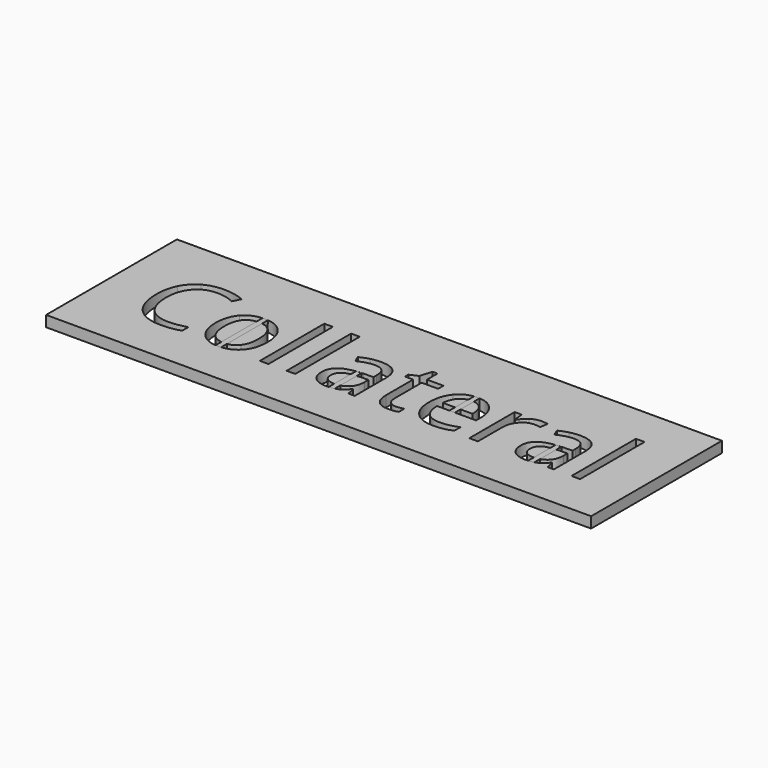
from build123d import *

# Parameters (mm, degrees)
F1_W     = 100
F1_H     = 30
F1_W_2   = 1.5768229167
F1_H_2   = 14.7747395833
F2_DEPTH = 2
F4_DEPTH = 2


with BuildPart() as f2:
    # F1 (on Top) → F2 (new body)
    with BuildSketch(Plane.XY):
        with Locations((-1.2181133032, 22.7711106278)):
            Rectangle(F1_W, F1_H)
        with BuildLine():
            add(Edge.make_bspline(
                [(-33.0731068962, 27.6686800722), (-34.6499298128, 28.4069613222), (-36.2267527295, 28.4069613222)],
                knots=[0, 0, 0, 1, 1, 1], degree=2))
            add(Edge.make_bspline(
                [(-36.2267527295, 28.4069613222), (-38.5145131462, 28.4069613222), (-39.8391659239, 26.8833068084)],
                knots=[0, 0, 0, 1, 1, 1], degree=2))
            add(Edge.make_bspline(
                [(-39.8391659239, 26.8833068084), (-41.1638187017, 25.3596522945), (-41.1638187017, 22.7103467389)],
                knots=[0, 0, 0, 1, 1, 1], degree=2))
            add(Edge.make_bspline(
                [(-41.1638187017, 22.7103467389), (-41.1638187017, 19.9881245167), (-39.8862579378, 18.5009283361)],
                knots=[0, 0, 0, 1, 1, 1], degree=2))
            add(Edge.make_bspline(
                [(-39.8862579378, 18.5009283361), (-38.6086971739, 17.0137321556), (-36.2449818962, 17.0137321556)],
                knots=[0, 0, 0, 1, 1, 1], degree=2))
            add(Edge.make_bspline(
                [(-36.2449818962, 17.0137321556), (-34.7927249517, 17.0137321556), (-32.9303117573, 17.5363016)],
                knots=[0, 0, 0, 1, 1, 1], degree=2))
            Line((-32.9303117573, 17.5363016), (-32.9303117573, 16.1235411834))
            add(Edge.make_bspline(
                [(-32.9303117573, 16.1235411834), (-34.3734541184, 15.5797043778), (-36.4910756462, 15.5797043778)],
                knots=[0, 0, 0, 1, 1, 1], degree=2))
            add(Edge.make_bspline(
                [(-36.4910756462, 15.5797043778), (-39.5566138406, 15.5797043778), (-41.2230634934, 17.4421175722)],
                knots=[0, 0, 0, 1, 1, 1], degree=2))
            add(Edge.make_bspline(
                [(-41.2230634934, 17.4421175722), (-42.8895131462, 19.3045307667), (-42.8895131462, 22.7316141)],
                knots=[0, 0, 0, 1, 1, 1], degree=2))
            add(Edge.make_bspline(
                [(-42.8895131462, 22.7316141), (-42.8895131462, 24.8765793778), (-42.0874298128, 26.4898606278)],
                knots=[0, 0, 0, 1, 1, 1], degree=2))
            add(Edge.make_bspline(
                [(-42.0874298128, 26.4898606278), (-41.2853464795, 28.1031418778), (-39.7708065489, 28.9766227806)],
                knots=[0, 0, 0, 1, 1, 1], degree=2))
            add(Edge.make_bspline(
                [(-39.7708065489, 28.9766227806), (-38.2562666184, 29.8501036834), (-36.2054853684, 29.8501036834)],
                knots=[0, 0, 0, 1, 1, 1], degree=2))
            add(Edge.make_bspline(
                [(-36.2054853684, 29.8501036834), (-34.0240617573, 29.8501036834), (-32.3895131462, 29.0540967389)],
                knots=[0, 0, 0, 1, 1, 1], degree=2))
            Line((-32.3895131462, 29.0540967389), (-33.0731068962, 27.6686800722))
        make_face(mode=Mode.SUBTRACT)
        with BuildLine():
            add(Edge.make_bspline(
                [(-22.4439836323, 24.9145568084), (-21.1573082851, 23.4607807667), (-21.1573082851, 20.9846522945)],
                knots=[0, 0, 0, 1, 1, 1], degree=2))
            add(Edge.make_bspline(
                [(-21.1573082851, 20.9846522945), (-21.1573082851, 18.43864535), (-22.4379072434, 17.0091748639)],
                knots=[0, 0, 0, 1, 1, 1], degree=2))
            add(Edge.make_bspline(
                [(-22.4379072434, 17.0091748639), (-23.7185062017, 15.5797043778), (-25.9789228684, 15.5797043778)],
                knots=[0, 0, 0, 1, 1, 1], degree=2))
            add(Edge.make_bspline(
                [(-25.9789228684, 15.5797043778), (-27.3764923128, 15.5797043778), (-28.4580895351, 16.2359543778)],
                knots=[0, 0, 0, 1, 1, 1], degree=2))
            add(Edge.make_bspline(
                [(-28.4580895351, 16.2359543778), (-29.5396867573, 16.8922043778), (-30.1290964795, 18.1165967389)],
                knots=[0, 0, 0, 1, 1, 1], degree=2))
            add(Edge.make_bspline(
                [(-30.1290964795, 18.1165967389), (-30.7185062017, 19.3409891), (-30.7185062017, 20.9846522945)],
                knots=[0, 0, 0, 1, 1, 1], degree=2))
            add(Edge.make_bspline(
                [(-30.7185062017, 20.9846522945), (-30.7185062017, 23.5276210445), (-29.4455027295, 24.9479769472)],
                knots=[0, 0, 0, 1, 1, 1], degree=2))
            add(Edge.make_bspline(
                [(-29.4455027295, 24.9479769472), (-28.1724992573, 26.36833285), (-25.9120825906, 26.36833285)],
                knots=[0, 0, 0, 1, 1, 1], degree=2))
            add(Edge.make_bspline(
                [(-25.9120825906, 26.36833285), (-23.7306589795, 26.36833285), (-22.4439836323, 24.9145568084)],
                knots=[0, 0, 0, 1, 1, 1], degree=2))
        make_face(mode=Mode.SUBTRACT)
        with BuildLine():
            Line((-0.9867353684, 15.7711106278), (-2.1564402295, 15.7711106278))
            Line((-2.1564402295, 15.7711106278), (-2.4693742573, 17.2537495167))
            Line((-2.4693742573, 17.2537495167), (-2.5453291184, 17.2537495167))
            add(Edge.make_bspline(
                [(-2.5453291184, 17.2537495167), (-3.3231068962, 16.2754509056), (-4.0963273823, 15.9275776417)],
                knots=[0, 0, 0, 1, 1, 1], degree=2))
            add(Edge.make_bspline(
                [(-4.0963273823, 15.9275776417), (-4.8695478684, 15.5797043778), (-6.0301381462, 15.5797043778)],
                knots=[0, 0, 0, 1, 1, 1], degree=2))
            add(Edge.make_bspline(
                [(-6.0301381462, 15.5797043778), (-7.5765791184, 15.5797043778), (-8.4546173128, 16.3787495167)],
                knots=[0, 0, 0, 1, 1, 1], degree=2))
            add(Edge.make_bspline(
                [(-8.4546173128, 16.3787495167), (-9.3326555073, 17.1777946556), (-9.3326555073, 18.6482807667)],
                knots=[0, 0, 0, 1, 1, 1], degree=2))
            add(Edge.make_bspline(
                [(-9.3326555073, 18.6482807667), (-9.3326555073, 21.7988884056), (-4.2922909239, 21.9507981278)],
                knots=[0, 0, 0, 1, 1, 1], degree=2))
            Line((-4.2922909239, 21.9507981278), (-2.5270999517, 22.0085238222))
            Line((-2.5270999517, 22.0085238222), (-2.5270999517, 22.6556592389))
            add(Edge.make_bspline(
                [(-2.5270999517, 22.6556592389), (-2.5270999517, 23.8800516), (-3.0527075906, 24.4633849334)],
                knots=[0, 0, 0, 1, 1, 1], degree=2))
            add(Edge.make_bspline(
                [(-3.0527075906, 24.4633849334), (-3.5783152295, 25.0467182667), (-4.7389055073, 25.0467182667)],
                knots=[0, 0, 0, 1, 1, 1], degree=2))
            add(Edge.make_bspline(
                [(-4.7389055073, 25.0467182667), (-6.0392527295, 25.0467182667), (-7.6798777295, 24.2507113222)],
                knots=[0, 0, 0, 1, 1, 1], degree=2))
            Line((-7.6798777295, 24.2507113222), (-8.1659888406, 25.4568745167))
            add(Edge.make_bspline(
                [(-8.1659888406, 25.4568745167), (-7.3973256462, 25.8731071556), (-6.4813100212, 26.1100863222)],
                knots=[0, 0, 0, 1, 1, 1], degree=2))
            add(Edge.make_bspline(
                [(-6.4813100212, 26.1100863222), (-5.5652943962, 26.3470654889), (-4.6416832851, 26.3470654889)],
                knots=[0, 0, 0, 1, 1, 1], degree=2))
            add(Edge.make_bspline(
                [(-4.6416832851, 26.3470654889), (-2.7823082851, 26.3470654889), (-1.8845218267, 25.5221956972)],
                knots=[0, 0, 0, 1, 1, 1], degree=2))
            add(Edge.make_bspline(
                [(-1.8845218267, 25.5221956972), (-0.9867353684, 24.6973259056), (-0.9867353684, 22.8744092389)],
                knots=[0, 0, 0, 1, 1, 1], degree=2))
            Line((-0.9867353684, 22.8744092389), (-0.9867353684, 15.7711106278))
        make_face(mode=Mode.SUBTRACT)
        with BuildLine():
            add(Edge.make_bspline(
                [(4.3939069927, 17.385910975), (4.8405215761, 16.8830897945), (5.6182993538, 16.8830897945)],
                knots=[0, 0, 0, 1, 1, 1], degree=2))
            add(Edge.make_bspline(
                [(5.6182993538, 16.8830897945), (6.0375701872, 16.8830897945), (6.4264590761, 16.9438536834)],
                knots=[0, 0, 0, 1, 1, 1], degree=2))
            add(Edge.make_bspline(
                [(6.4264590761, 16.9438536834), (6.8153479649, 17.0046175722), (7.0432125483, 17.07145785)],
                knots=[0, 0, 0, 1, 1, 1], degree=2))
            Line((7.0432125483, 17.07145785), (7.0432125483, 15.8652946556))
            add(Edge.make_bspline(
                [(7.0432125483, 15.8652946556), (6.7880042149, 15.7437668778), (6.2897403261, 15.6617356278)],
                knots=[0, 0, 0, 1, 1, 1], degree=2))
            add(Edge.make_bspline(
                [(6.2897403261, 15.6617356278), (5.7914764372, 15.5797043778), (5.3904347705, 15.5797043778)],
                knots=[0, 0, 0, 1, 1, 1], degree=2))
            add(Edge.make_bspline(
                [(5.3904347705, 15.5797043778), (2.3735076872, 15.5797043778), (2.3735076872, 18.7606939611)],
                knots=[0, 0, 0, 1, 1, 1], degree=2))
            Line((2.3735076872, 18.7606939611), (2.3735076872, 24.9525342389))
            Line((2.3735076872, 24.9525342389), (0.8817542149, 24.9525342389))
            Line((0.8817542149, 24.9525342389), (0.8817542149, 25.71208285))
            Line((0.8817542149, 25.71208285), (2.3735076872, 26.36833285))
            Line((2.3735076872, 26.36833285), (3.0358340761, 28.5892529889))
            Line((3.0358340761, 28.5892529889), (3.9472924094, 28.5892529889))
            Line((3.9472924094, 28.5892529889), (3.9472924094, 26.1769266))
            Line((3.9472924094, 26.1769266), (6.9672576872, 26.1769266))
            Line((6.9672576872, 26.1769266), (6.9672576872, 24.9525342389))
            Line((6.9672576872, 24.9525342389), (3.9472924094, 24.9525342389))
            Line((3.9472924094, 24.9525342389), (3.9472924094, 18.8275342389))
            add(Edge.make_bspline(
                [(3.9472924094, 18.8275342389), (3.9472924094, 17.8887321556), (4.3939069927, 17.385910975)],
                knots=[0, 0, 0, 1, 1, 1], degree=2))
        make_face(mode=Mode.SUBTRACT)
        with BuildLine():
            add(Edge.make_bspline(
                [(15.3162160205, 15.7376904889), (14.5718583816, 15.5797043778), (13.5176049094, 15.5797043778)],
                knots=[0, 0, 0, 1, 1, 1], degree=2))
            add(Edge.make_bspline(
                [(13.5176049094, 15.5797043778), (11.2116153261, 15.5797043778), (9.8763288677, 16.9863884056)],
                knots=[0, 0, 0, 1, 1, 1], degree=2))
            add(Edge.make_bspline(
                [(9.8763288677, 16.9863884056), (8.5410424094, 18.3930724334), (8.5410424094, 20.8874300722)],
                knots=[0, 0, 0, 1, 1, 1], degree=2))
            add(Edge.make_bspline(
                [(8.5410424094, 20.8874300722), (8.5410424094, 23.4060932667), (9.7806257427, 24.8872130584)],
                knots=[0, 0, 0, 1, 1, 1], degree=2))
            add(Edge.make_bspline(
                [(9.7806257427, 24.8872130584), (11.0202090761, 26.36833285), (13.1104868538, 26.36833285)],
                knots=[0, 0, 0, 1, 1, 1], degree=2))
            add(Edge.make_bspline(
                [(13.1104868538, 26.36833285), (15.0640458816, 26.36833285), (16.2033687983, 25.0816575028)],
                knots=[0, 0, 0, 1, 1, 1], degree=2))
            add(Edge.make_bspline(
                [(16.2033687983, 25.0816575028), (17.3426917149, 23.7949821556), (17.3426917149, 21.6864752111)],
                knots=[0, 0, 0, 1, 1, 1], degree=2))
            Line((17.3426917149, 21.6864752111), (17.3426917149, 20.6899474334))
            Line((17.3426917149, 20.6899474334), (10.1755910205, 20.6899474334))
            add(Edge.make_bspline(
                [(10.1755910205, 20.6899474334), (10.2242021316, 18.8579161834), (11.1022403261, 17.9084804195)],
                knots=[0, 0, 0, 1, 1, 1], degree=2))
            add(Edge.make_bspline(
                [(11.1022403261, 17.9084804195), (11.9802785205, 16.9590446556), (13.5753306038, 16.9590446556)],
                knots=[0, 0, 0, 1, 1, 1], degree=2))
            add(Edge.make_bspline(
                [(13.5753306038, 16.9590446556), (15.2554521316, 16.9590446556), (16.8960771316, 17.6608675722)],
                knots=[0, 0, 0, 1, 1, 1], degree=2))
            Line((16.8960771316, 17.6608675722), (16.8960771316, 16.2541835445))
            add(Edge.make_bspline(
                [(16.8960771316, 16.2541835445), (16.0605736594, 15.8956766), (15.3162160205, 15.7376904889)],
                knots=[0, 0, 0, 1, 1, 1], degree=2))
        make_face(mode=Mode.SUBTRACT)
        with BuildLine():
            add(Edge.make_bspline(
                [(22.9846187983, 25.8169005584), (23.8018931038, 26.36833285), (24.7801917149, 26.36833285)],
                knots=[0, 0, 0, 1, 1, 1], degree=2))
            add(Edge.make_bspline(
                [(24.7801917149, 26.36833285), (25.4729000483, 26.36833285), (26.0228132427, 26.2528814611)],
                knots=[0, 0, 0, 1, 1, 1], degree=2))
            Line((26.0228132427, 26.2528814611), (25.8040632427, 24.7915099334))
            add(Edge.make_bspline(
                [(25.8040632427, 24.7915099334), (25.1599660205, 24.9343050722), (24.6647403261, 24.9343050722)],
                knots=[0, 0, 0, 1, 1, 1], degree=2))
            add(Edge.make_bspline(
                [(24.6647403261, 24.9343050722), (23.4008514372, 24.9343050722), (22.5045840761, 23.9089144472)],
                knots=[0, 0, 0, 1, 1, 1], degree=2))
            add(Edge.make_bspline(
                [(22.5045840761, 23.9089144472), (21.6083167149, 22.8835238222), (21.6083167149, 21.3553120167)],
                knots=[0, 0, 0, 1, 1, 1], degree=2))
            Line((21.6083167149, 21.3553120167), (21.6083167149, 15.7711106278))
            Line((21.6083167149, 15.7711106278), (20.0314937983, 15.7711106278))
            Line((20.0314937983, 15.7711106278), (20.0314937983, 26.1769266))
            Line((20.0314937983, 26.1769266), (21.3318410205, 26.1769266))
            Line((21.3318410205, 26.1769266), (21.5141326872, 24.2507113222))
            Line((21.5141326872, 24.2507113222), (21.5900875483, 24.2507113222))
            add(Edge.make_bspline(
                [(21.5900875483, 24.2507113222), (22.1673444927, 25.2654682667), (22.9846187983, 25.8169005584)],
                knots=[0, 0, 0, 1, 1, 1], degree=2))
        make_face(mode=Mode.SUBTRACT)
        with BuildLine():
            Line((35.5384382427, 15.7711106278), (34.3687333816, 15.7711106278))
            Line((34.3687333816, 15.7711106278), (34.0557993538, 17.2537495167))
            Line((34.0557993538, 17.2537495167), (33.9798444927, 17.2537495167))
            add(Edge.make_bspline(
                [(33.9798444927, 17.2537495167), (33.2020667149, 16.2754509056), (32.4288462288, 15.9275776417)],
                knots=[0, 0, 0, 1, 1, 1], degree=2))
            add(Edge.make_bspline(
                [(32.4288462288, 15.9275776417), (31.6556257427, 15.5797043778), (30.4950354649, 15.5797043778)],
                knots=[0, 0, 0, 1, 1, 1], degree=2))
            add(Edge.make_bspline(
                [(30.4950354649, 15.5797043778), (28.9485944927, 15.5797043778), (28.0705562983, 16.3787495167)],
                knots=[0, 0, 0, 1, 1, 1], degree=2))
            add(Edge.make_bspline(
                [(28.0705562983, 16.3787495167), (27.1925181038, 17.1777946556), (27.1925181038, 18.6482807667)],
                knots=[0, 0, 0, 1, 1, 1], degree=2))
            add(Edge.make_bspline(
                [(27.1925181038, 18.6482807667), (27.1925181038, 21.7988884056), (32.2328826872, 21.9507981278)],
                knots=[0, 0, 0, 1, 1, 1], degree=2))
            Line((32.2328826872, 21.9507981278), (33.9980736594, 22.0085238222))
            Line((33.9980736594, 22.0085238222), (33.9980736594, 22.6556592389))
            add(Edge.make_bspline(
                [(33.9980736594, 22.6556592389), (33.9980736594, 23.8800516), (33.4724660205, 24.4633849334)],
                knots=[0, 0, 0, 1, 1, 1], degree=2))
            add(Edge.make_bspline(
                [(33.4724660205, 24.4633849334), (32.9468583816, 25.0467182667), (31.7862681038, 25.0467182667)],
                knots=[0, 0, 0, 1, 1, 1], degree=2))
            add(Edge.make_bspline(
                [(31.7862681038, 25.0467182667), (30.4859208816, 25.0467182667), (28.8452958816, 24.2507113222)],
                knots=[0, 0, 0, 1, 1, 1], degree=2))
            Line((28.8452958816, 24.2507113222), (28.3591847705, 25.4568745167))
            add(Edge.make_bspline(
                [(28.3591847705, 25.4568745167), (29.1278479649, 25.8731071556), (30.0438635899, 26.1100863222)],
                knots=[0, 0, 0, 1, 1, 1], degree=2))
            add(Edge.make_bspline(
                [(30.0438635899, 26.1100863222), (30.9598792149, 26.3470654889), (31.8834903261, 26.3470654889)],
                knots=[0, 0, 0, 1, 1, 1], degree=2))
            add(Edge.make_bspline(
                [(31.8834903261, 26.3470654889), (33.7428653261, 26.3470654889), (34.6406517844, 25.5221956972)],
                knots=[0, 0, 0, 1, 1, 1], degree=2))
            add(Edge.make_bspline(
                [(34.6406517844, 25.5221956972), (35.5384382427, 24.6973259056), (35.5384382427, 22.8744092389)],
                knots=[0, 0, 0, 1, 1, 1], degree=2))
            Line((35.5384382427, 22.8744092389), (35.5384382427, 15.7711106278))
        make_face(mode=Mode.SUBTRACT)
        with Locations((-17.6041398823, 23.1584804195)):
            Rectangle(F1_W_2, F1_H_2, mode=Mode.SUBTRACT)
        with Locations((-12.6853030767, 23.1584804195)):
            Rectangle(F1_W_2, F1_H_2, mode=Mode.SUBTRACT)
        with Locations((39.5716413677, 23.1584804195)):
            Rectangle(F1_W_2, F1_H_2, mode=Mode.SUBTRACT)
    extrude(amount=F2_DEPTH)


with BuildPart() as f2b:
    # F1 (on Top) → F2, piece 2 (new body)
    with BuildSketch(Plane.XY):
        with BuildLine():
            add(Edge.make_bspline(
                [(-7.1633846739, 17.3281852806), (-6.6468916184, 16.8830897945), (-5.7172041184, 16.8830897945)],
                knots=[0, 0, 0, 1, 1, 1], degree=2))
            add(Edge.make_bspline(
                [(-5.7172041184, 16.8830897945), (-4.2436798128, 16.8830897945), (-3.4036190489, 17.6897304195)],
                knots=[0, 0, 0, 1, 1, 1], degree=2))
            add(Edge.make_bspline(
                [(-3.4036190489, 17.6897304195), (-2.5635582851, 18.4963710445), (-2.5635582851, 19.9486279889)],
                knots=[0, 0, 0, 1, 1, 1], degree=2))
            Line((-2.5635582851, 19.9486279889), (-2.5635582851, 20.8874300722))
            Line((-2.5635582851, 20.8874300722), (-4.1403812017, 20.8236279889))
            add(Edge.make_bspline(
                [(-4.1403812017, 20.8236279889), (-6.0210235628, 20.7567877111), (-6.8504506462, 20.2387755584)],
                knots=[0, 0, 0, 1, 1, 1], degree=2))
            add(Edge.make_bspline(
                [(-6.8504506462, 20.2387755584), (-7.6798777295, 19.7207634056), (-7.6798777295, 18.6300516)],
                knots=[0, 0, 0, 1, 1, 1], degree=2))
            add(Edge.make_bspline(
                [(-7.6798777295, 18.6300516), (-7.6798777295, 17.7732807667), (-7.1633846739, 17.3281852806)],
                knots=[0, 0, 0, 1, 1, 1], degree=2))
        make_face()
    extrude(amount=F2_DEPTH)


with BuildPart() as f2c:
    # F1 (on Top) → F2, piece 3 (new body)
    with BuildSketch(Plane.XY):
        with BuildLine():
            add(Edge.make_bspline(
                [(14.9896101177, 24.2537495167), (14.3257646316, 25.0467182667), (13.0892194927, 25.0467182667)],
                knots=[0, 0, 0, 1, 1, 1], degree=2))
            add(Edge.make_bspline(
                [(13.0892194927, 25.0467182667), (11.8374833816, 25.0467182667), (11.0916066455, 24.2309630584)],
                knots=[0, 0, 0, 1, 1, 1], degree=2))
            add(Edge.make_bspline(
                [(11.0916066455, 24.2309630584), (10.3457299094, 23.41520785), (10.2120493538, 21.9720654889)],
                knots=[0, 0, 0, 1, 1, 1], degree=2))
            Line((10.2120493538, 21.9720654889), (15.6534556038, 21.9720654889))
            add(Edge.make_bspline(
                [(15.6534556038, 21.9720654889), (15.6534556038, 23.4607807667), (14.9896101177, 24.2537495167)],
                knots=[0, 0, 0, 1, 1, 1], degree=2))
        make_face()
    extrude(amount=F2_DEPTH)


with BuildPart() as f2d:
    # F1 (on Top) → F2, piece 4 (new body)
    with BuildSketch(Plane.XY):
        with BuildLine():
            add(Edge.make_bspline(
                [(29.3617889372, 17.3281852806), (29.8782819927, 16.8830897945), (30.8079694927, 16.8830897945)],
                knots=[0, 0, 0, 1, 1, 1], degree=2))
            add(Edge.make_bspline(
                [(30.8079694927, 16.8830897945), (32.2814937983, 16.8830897945), (33.1215545622, 17.6897304195)],
                knots=[0, 0, 0, 1, 1, 1], degree=2))
            add(Edge.make_bspline(
                [(33.1215545622, 17.6897304195), (33.9616153261, 18.4963710445), (33.9616153261, 19.9486279889)],
                knots=[0, 0, 0, 1, 1, 1], degree=2))
            Line((33.9616153261, 19.9486279889), (33.9616153261, 20.8874300722))
            Line((33.9616153261, 20.8874300722), (32.3847924094, 20.8236279889))
            add(Edge.make_bspline(
                [(32.3847924094, 20.8236279889), (30.5041500483, 20.7567877111), (29.6747229649, 20.2387755584)],
                knots=[0, 0, 0, 1, 1, 1], degree=2))
            add(Edge.make_bspline(
                [(29.6747229649, 20.2387755584), (28.8452958816, 19.7207634056), (28.8452958816, 18.6300516)],
                knots=[0, 0, 0, 1, 1, 1], degree=2))
            add(Edge.make_bspline(
                [(28.8452958816, 18.6300516), (28.8452958816, 17.7732807667), (29.3617889372, 17.3281852806)],
                knots=[0, 0, 0, 1, 1, 1], degree=2))
        make_face()
    extrude(amount=F2_DEPTH)


with BuildPart() as f2e:
    # F1 (on Top) → F2, piece 5 (new body)
    with BuildSketch(Plane.XY):
        with BuildLine():
            add(Edge.make_bspline(
                [(-28.2955461323, 24.0122130584), (-29.0839575906, 22.9959370167), (-29.0839575906, 20.9846522945)],
                knots=[0, 0, 0, 1, 1, 1], degree=2))
            add(Edge.make_bspline(
                [(-29.0839575906, 20.9846522945), (-29.0839575906, 18.9885585445), (-28.2864315489, 17.9449387528)],
                knots=[0, 0, 0, 1, 1, 1], degree=2))
            add(Edge.make_bspline(
                [(-28.2864315489, 17.9449387528), (-27.4889055073, 16.9013189611), (-25.9424645351, 16.9013189611)],
                knots=[0, 0, 0, 1, 1, 1], degree=2))
            add(Edge.make_bspline(
                [(-25.9424645351, 16.9013189611), (-24.3929853684, 16.9013189611), (-23.5909020351, 17.9403814611)],
                knots=[0, 0, 0, 1, 1, 1], degree=2))
            add(Edge.make_bspline(
                [(-23.5909020351, 17.9403814611), (-22.7888187017, 18.9794439611), (-22.7888187017, 20.9846522945)],
                knots=[0, 0, 0, 1, 1, 1], degree=2))
            add(Edge.make_bspline(
                [(-22.7888187017, 20.9846522945), (-22.7888187017, 22.9685932667), (-23.5909020351, 23.9985411834)],
                knots=[0, 0, 0, 1, 1, 1], degree=2))
            add(Edge.make_bspline(
                [(-23.5909020351, 23.9985411834), (-24.3929853684, 25.0284891), (-25.9606937017, 25.0284891)],
                knots=[0, 0, 0, 1, 1, 1], degree=2))
            add(Edge.make_bspline(
                [(-25.9606937017, 25.0284891), (-27.5071346739, 25.0284891), (-28.2955461323, 24.0122130584)],
                knots=[0, 0, 0, 1, 1, 1], degree=2))
        make_face()
    extrude(amount=F2_DEPTH)


with BuildPart() as f4:
    # F3 (on face) → F4 (new body)
    with BuildSketch(Plane.XY.offset(2)):
        with BuildLine():
            add(Edge.make_bspline(
                [(-26.3735035658, 26.3528375692), (-26.1481791384, 26.36833285), (-25.9120825906, 26.36833285)],
                knots=[0.8955517577, 0.8955517577, 0.8955517577, 1, 1, 1], degree=2))
            Line((-26.3735035658, 26.3528375692), (-26.3735035658, 15.5932169865))
            add(Edge.make_bspline(
                [(-25.9789228684, 15.5797043778), (-26.1794662525, 15.5797043778), (-26.3735035658, 15.5932169865)],
                knots=[0, 0, 0, 0.1434943966, 0.1434943966, 0.1434943966], degree=2))
            add(Edge.make_bspline(
                [(-25.3735035658, 15.6069461485), (-25.6668769035, 15.5797043778), (-25.9789228684, 15.5797043778)],
                knots=[0.8619520155, 0.8619520155, 0.8619520155, 1, 1, 1], degree=2))
            Line((-25.3735035658, 15.6069461485), (-25.3735035658, 26.344980437))
            add(Edge.make_bspline(
                [(-25.9120825906, 26.36833285), (-25.6356067818, 26.36833285), (-25.3735035658, 26.344980437)],
                knots=[0, 0, 0, 0.1267409995, 0.1267409995, 0.1267409995], degree=2))
        make_face()
    extrude(amount=-F4_DEPTH)


with BuildPart() as f4b:
    # F3 (on face) → F4, piece 2 (new body)
    with BuildSketch(Plane.XY.offset(2)):
        with BuildLine():
            add(Edge.make_bspline(
                [(-5.6343370341, 21.8455506928), (-5.1642171903, 21.9089188973), (-4.6343370341, 21.9367334981)],
                knots=[0.8565864058, 0.8565864058, 0.8565864058, 0.9654732608, 0.9654732608, 0.9654732608], degree=2))
            Line((-5.6343370341, 21.8455506928), (-5.6343370341, 15.5904393674))
            add(Edge.make_bspline(
                [(-4.6343370341, 15.739644623), (-5.085451152, 15.621140556), (-5.6343370341, 15.5904393674)],
                knots=[0.3219396449, 0.3219396449, 0.3219396449, 0.8243329583, 0.8243329583, 0.8243329583], degree=2))
            Line((-4.6343370341, 15.739644623), (-4.6343370341, 21.9367334981))
        make_face()
    extrude(amount=-F4_DEPTH)


with BuildPart() as f4c:
    # F3 (on face) → F4, piece 3 (new body)
    with BuildSketch(Plane.XY.offset(2)):
        with BuildLine():
            add(Edge.make_bspline(
                [(12.4515026584, 26.32896171), (12.7696881723, 26.36833285), (13.1104868538, 26.36833285)],
                knots=[0.8369600992, 0.8369600992, 0.8369600992, 1, 1, 1], degree=2))
            Line((12.4515026584, 26.32896171), (12.4515026584, 20.6899474334))
            Line((12.4515026584, 20.6899474334), (13.4515026584, 20.6899474334))
            Line((13.4515026584, 20.6899474334), (13.4515026584, 26.3581574111))
            add(Edge.make_bspline(
                [(13.1104868538, 26.36833285), (13.2842143755, 26.36833285), (13.4515026584, 26.3581574111)],
                knots=[0, 0, 0, 0.0889287292, 0.0889287292, 0.0889287292], degree=2))
        make_face()
    extrude(amount=-F4_DEPTH)


with BuildPart() as f4d:
    # F3 (on face) → F4, piece 4 (new body)
    with BuildSketch(Plane.XY.offset(2)):
        with BuildLine():
            add(Edge.make_bspline(
                [(30.9809634238, 21.8573031566), (31.4517155943, 21.9166458251), (31.9809634238, 21.9411872788)],
                knots=[0.8669609495, 0.8669609495, 0.8669609495, 0.9746895068, 0.9746895068, 0.9746895068], degree=2))
            Line((30.9809634238, 21.8573031566), (30.9809634238, 15.5961185421))
            add(Edge.make_bspline(
                [(31.9809634238, 15.7644778806), (31.5316539032, 15.634776173), (30.9809634238, 15.5961185421)],
                knots=[0.2711983958, 0.2711983958, 0.2711983958, 0.782780474, 0.782780474, 0.782780474], degree=2))
            Line((31.9809634238, 15.7644778806), (31.9809634238, 21.9411872788))
        make_face()
    extrude(amount=-F4_DEPTH)


solid = Compound([f2.part, f2b.part, f2c.part, f2d.part, f2e.part, f4.part, f4b.part, f4c.part, f4d.part])
